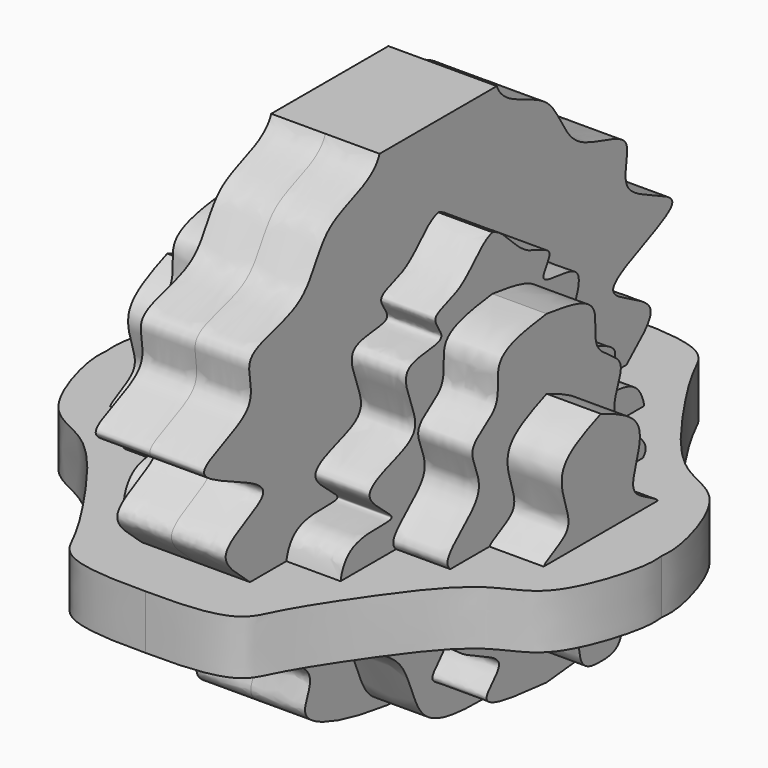
from build123d import *

# Parameters (mm, degrees)
F1_DEPTH = 25.4
F3_DEPTH = 25.4
F5_DEPTH = 25.4
F7_DEPTH = 25.4
F9_DEPTH = 25.4


with BuildPart() as f1:
    # F0 (on Right) → F1 (new body)
    with BuildSketch(Plane.YZ):
        with BuildLine():
            add(Edge.make_bspline(
                [(0, -57.3216152309), (-10.2361249885, -59.3942854042), (-31.3021574241, -59.528238657), (-89.4351193697, -46.5165773079), (-62.699306616, -22.7804153231), (-130.5920533775, -2.0760754085), (-87.3376753403, 15.8842643969), (-146.234766773, 44.2885179296), (-76.5488767205, 59.6450682536), (-163.1690250248, 82.024401152), (-100.2408503651, 93.1446891702), (-119.4933371279, 122.6996030911), (-74.6218770051, 123.7736822976), (-69.4975340133, 158.592599544), (-38.3355883769, 160.6496392753), (-34.3243191969, 171.2783847691)],
                knots=[0, 0, 0, 0, 0.0822942636, 0.1761432874, 0.2306889766, 0.324296051, 0.3837951086, 0.4652820992, 0.5388089242, 0.6274321028, 0.7041647426, 0.7652246994, 0.8426173684, 0.9186468053, 1, 1, 1, 1], degree=3))
            Line((0, -57.3216152309), (0, 171.2783847691))
            Line((0, 171.2783847691), (-34.3243191969, 171.2783847691))
        make_face()
    extrude(amount=F1_DEPTH)

    # F2 (on face) → F3 (join)
    with BuildSketch(Plane.YZ.offset(25.4)):
        with BuildLine():
            add(Edge.make_bspline(
                [(0, -57.3216152309), (-17.3969619123, -57.1761739012), (-45.5265038813, -56.9391123724), (-48.9234624872, -17.5659394684), (-88.9822161514, -7.9631130003), (-93.7774655103, 44.9969945221), (-45.3293462318, 34.0333918566), (-84.0797446537, 55.9068287941), (-51.360987822, 63.2903079091), (-40.7858858752, 72.5157455501), (-60.2765980156, 102.3925140199), (-22.2769269147, 97.7444890501), (-39.4026734225, 113.4376862112), (-15.6717925153, 115.3401568519), (-7.3703534213, 131.1650978203), (0, 133.1783847691)],
                knots=[0, 0, 0, 0, 0.1023073116, 0.1893396556, 0.2865668126, 0.3820917834, 0.4602334376, 0.529537632, 0.603827238, 0.6606459181, 0.7366414541, 0.8082228351, 0.857120588, 0.9206314621, 1, 1, 1, 1], degree=3))
            Line((0, -57.3216152309), (0, 133.1783847691))
        make_face()
    extrude(amount=F3_DEPTH)

    # F4 (on face) → F5 (join)
    with BuildSketch(Plane.YZ.offset(50.8)):
        with BuildLine():
            add(Edge.make_bspline(
                [(0, -44.260405004), (-17.9171734876, -42.7059352553), (-46.5791752634, -40.2192587308), (-16.6767726526, -22.3666761893), (-59.6324493882, -13.8060267648), (-57.8011388952, 12.2264272116), (-13.9814322927, 12.0023390136), (-77.3684838795, 25.8364756466), (-29.2509744008, 47.5935518374), (-51.4073461037, 71.4166139308), (-24.2974625274, 79.3551131055), (-33.4502915129, 103.4050873109), (-12.1039898766, 106.2245535537), (0, 107.8232750297)],
                knots=[0, 0, 0, 0, 0.1137002372, 0.1818856307, 0.2861079829, 0.3641954149, 0.4514178228, 0.5538898717, 0.6546742264, 0.7391967686, 0.8203757691, 0.8981477021, 1, 1, 1, 1], degree=3))
            Line((0, -44.260405004), (0, 107.8232750297))
        make_face()
    extrude(amount=F5_DEPTH)

    # F6 (on face) → F7 (join)
    with BuildSketch(Plane.YZ.offset(76.2)):
        with BuildLine():
            add(Edge.make_bspline(
                [(0, -27.3359809071), (-15.6953381781, -27.8630238132), (-6.5340581232, -8.2875172769), (-35.8154894502, -11.2091555449), (-14.1533979214, 12.6991039248), (-43.9445725489, 24.5123090608), (-16.2741485893, 32.0341404092), (-20.5155300469, 44.9870119556), (-26.2277620083, 63.0267578702), (-12.1832240641, 70.0418836989), (0, 74.8308077455)],
                knots=[0, 0, 0, 0, 0.1349723503, 0.2492694135, 0.3786517309, 0.5037491825, 0.625906995, 0.7266366529, 0.8445517604, 1, 1, 1, 1], degree=3))
            Line((0, -27.3359809071), (0, 74.8308077455))
        make_face()
    extrude(amount=F7_DEPTH)

    # F8 (on Top) → F9 (join)
    with BuildSketch(Plane.XY):
        with BuildLine():
            Line((0, 0), (0, -139.7958695889))
            add(Edge.make_bspline(
                [(0, -139.7958695889), (40.63237831, -140.4585838318), (43.3019067691, -126.9247335736), (65.4838579092, -92.6624489255), (91.7708459648, -56.7743393924), (118.6752727231, -51.8808689273), (131.0257031451, -11.1018821037), (130.2798517746, -2.8544289752), (130.0135105848, 0)],
                knots=[0, 0, 0, 0, 0.2071831245, 0.3817667418, 0.5745373008, 0.7220043793, 0.9038437768, 1, 1, 1, 1], degree=3))
            Line((130.0135105848, 0), (0, 0))
        make_face()
    extrude(amount=F9_DEPTH)

    # F10: F1 across face


with BuildPart() as f1_1:
    add(f1.part)
    add(f1.part.mirror(Plane(origin=(45.8725278178, 0, 39.7157777056), x_dir=(-1, 0, 0), z_dir=(0, 1, 0))))

    # F11: F1 across face


with BuildPart() as f1_2:
    add(f1_1.part)
    add(f1_1.part.mirror(Plane(origin=(0, 0, 53.1705573744), x_dir=(0, -1, 0), z_dir=(-1, 0, 0))))


solid = f1_2.part
